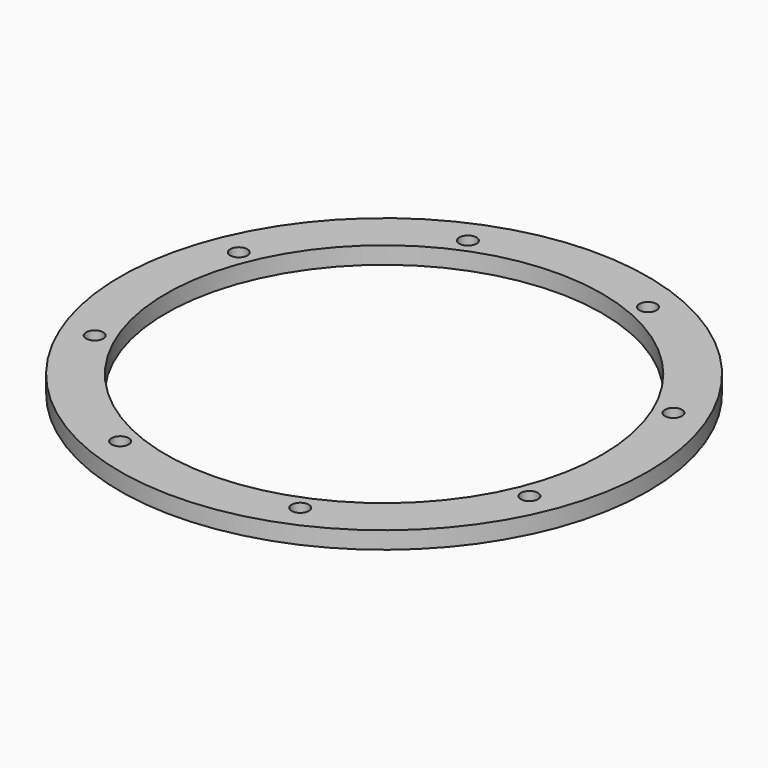
from build123d import *

# Parameters (mm, degrees)
CYLINDER629_R               = 1.5
CYLINDER629_DEPTH           = 60
CYLINDER627_R               = 1.5
CYLINDER627_DEPTH           = 60
CYLINDER627_PLACEMENT_ANGLE = 135
CYLINDER625_R               = 1.5
CYLINDER625_DEPTH           = 60
CYLINDER630_R               = 1.5
CYLINDER630_DEPTH           = 60
CYLINDER630_PLACEMENT_ANGLE = 225
CYLINDER631_R               = 1.5
CYLINDER631_DEPTH           = 60
CYLINDER624_R               = 1.5
CYLINDER624_DEPTH           = 60
CYLINDER624_PLACEMENT_ANGLE = 45
CYLINDER628_R               = 1.5
CYLINDER628_DEPTH           = 60
CYLINDER626_R               = 1.5
CYLINDER626_DEPTH           = 60
CYLINDER626_PLACEMENT_ANGLE = 45
COMPOUND656_PLACEMENT_ANGLE = 22.5
TUBE044_R                   = 46
TUBE044_R_2                 = 38
TUBE044_DEPTH               = 3


with BuildPart() as obj1:
    # Cylinder629 → Cylinder629 (new body)
    with BuildSketch(Plane(origin=(0, 41, -54), x_dir=(0, 1, 0), z_dir=(0, 0, 1))):
        Circle(CYLINDER629_R)
    extrude(amount=CYLINDER629_DEPTH)


with BuildPart() as obj2:
    # Cylinder627 → Cylinder627 (new body)
    with BuildSketch(Plane.XY):
        Circle(CYLINDER627_R)
    extrude(amount=CYLINDER627_DEPTH)


with BuildPart() as obj2_1:
    # Cylinder627 placement: moved
    add(obj2.part.moved(Location((-28.991378, 28.991378, -54))).rotate(Axis((-28.991378, 28.991378, -54), (0, 0, 1)), CYLINDER627_PLACEMENT_ANGLE))


with BuildPart() as obj3:
    # Cylinder625 → Cylinder625 (new body)
    with BuildSketch(Plane(origin=(-41, 0, -54), x_dir=(-1, 0, 0), z_dir=(0, 0, 1))):
        Circle(CYLINDER625_R)
    extrude(amount=CYLINDER625_DEPTH)


with BuildPart() as obj4:
    # Cylinder630 → Cylinder630 (new body)
    with BuildSketch(Plane.XY):
        Circle(CYLINDER630_R)
    extrude(amount=CYLINDER630_DEPTH)


with BuildPart() as obj4_1:
    # Cylinder630 placement: moved
    add(obj4.part.moved(Location((-28.991378, -28.991378, -54))).rotate(Axis((-28.991378, -28.991378, -54), (0, 0, 1)), CYLINDER630_PLACEMENT_ANGLE))


with BuildPart() as obj5:
    # Cylinder631 → Cylinder631 (new body)
    with BuildSketch(Plane(origin=(0, -41, -54), x_dir=(0, -1, 0), z_dir=(0, 0, 1))):
        Circle(CYLINDER631_R)
    extrude(amount=CYLINDER631_DEPTH)


with BuildPart() as obj6:
    # Cylinder624 → Cylinder624 (new body)
    with BuildSketch(Plane.XY):
        Circle(CYLINDER624_R)
    extrude(amount=CYLINDER624_DEPTH)


with BuildPart() as obj6_1:
    # Cylinder624 placement: moved
    add(obj6.part.moved(Location((28.991378, -28.991378, -54))).rotate(Axis((28.991378, -28.991378, -54), (0, 0, -1)), CYLINDER624_PLACEMENT_ANGLE))


with BuildPart() as obj7:
    # Cylinder628 → Cylinder628 (new body)
    with BuildSketch(Plane(origin=(41, 0, -54), x_dir=(1, 0, 0), z_dir=(0, 0, 1))):
        Circle(CYLINDER628_R)
    extrude(amount=CYLINDER628_DEPTH)


with BuildPart() as compound656:
    # Cylinder626 → Cylinder626 (new body)
    with BuildSketch(Plane.XY):
        Circle(CYLINDER626_R)
    extrude(amount=CYLINDER626_DEPTH)


with BuildPart() as compound656_1:
    # Cylinder626 placement: moved
    add(compound656.part.moved(Location((28.991378, 28.991378, -54))).rotate(Axis((28.991378, 28.991378, -54), (0, 0, 1)), CYLINDER626_PLACEMENT_ANGLE))

    # Compound656: union obj1, obj2, obj3, obj4, obj5, obj6, obj7
    add(obj1.part)
    add(obj2_1.part)
    add(obj3.part)
    add(obj4_1.part)
    add(obj5.part)
    add(obj6_1.part)
    add(obj7.part)


with BuildPart() as compound656_2:
    # Compound656 placement: moved
    add(compound656_1.part.rotate(Axis((0, 0, 0), (0, 0, 1)), COMPOUND656_PLACEMENT_ANGLE))


with BuildPart() as j_midi_motor_washer001:
    # Tube044 → Tube044 (new body)
    with BuildSketch(Plane.XY.offset(-11)):
        Circle(TUBE044_R)
        Circle(TUBE044_R_2, mode=Mode.SUBTRACT)
    extrude(amount=TUBE044_DEPTH)

    # Cut284: cut Compound656
    add(compound656_2.part, mode=Mode.SUBTRACT)


solid = j_midi_motor_washer001.part
